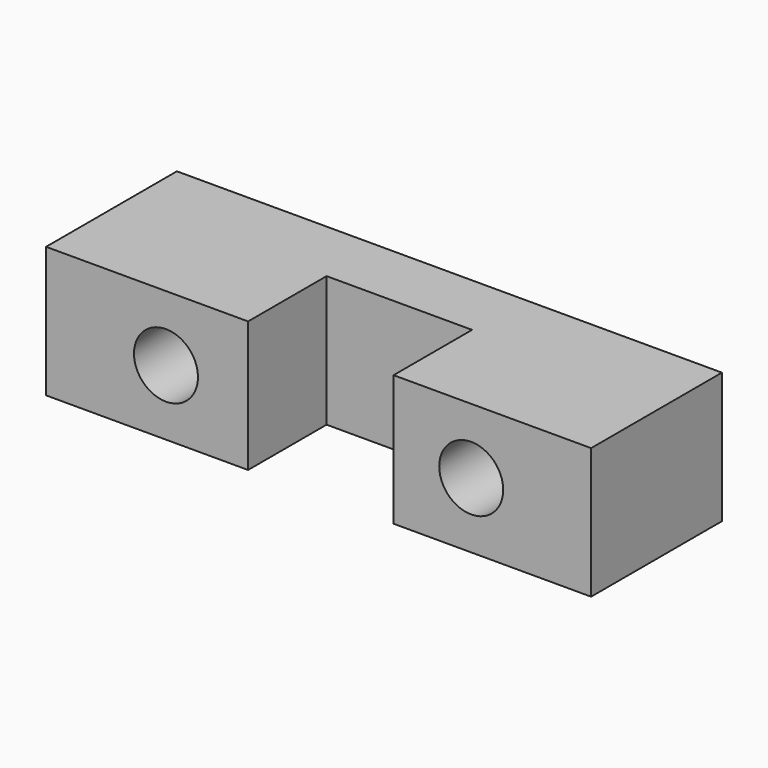
from build123d import *

# Parameters (mm, degrees)
F0_W     = 50
F0_H     = 12
F0_R     = 2.9335
F1_DEPTH = 5
F2_W     = 18.531616
F2_H     = 12
F2_W_2   = 18.120926
F3_DEPTH = 9
F4_R     = 2.9335
F5_DEPTH = 25
F6_W     = 50
F6_H     = 12
F7_DEPTH = 1


with BuildPart() as f1:
    # F0 (on Front) → F1 (new body)
    with BuildSketch(Plane.XZ):
        Rectangle(F0_W, F0_H)
        with Locations((-14, 0)):
            Circle(F0_R, mode=Mode.SUBTRACT)
        with Locations((14, 0)):
            Circle(F0_R, mode=Mode.SUBTRACT)
    extrude(amount=F1_DEPTH)

    # F2 (on face) → F3 (join)
    with BuildSketch(Plane.XZ.offset(5)):
        with Locations((-15.734192, 0)):
            Rectangle(F2_W, F2_H)
        with Locations((15.939537, 0)):
            Rectangle(F2_W_2, F2_H)
    extrude(amount=F3_DEPTH)

    # F4 (on face) → F5 (cut)
    with BuildSketch(Plane(origin=(0, 0, 0), x_dir=(-1, 0, 0), z_dir=(0, 1, 0))):
        with Locations((-14, 0)):
            Circle(F4_R)
        with Locations((14, 0)):
            Circle(F4_R)
    extrude(amount=-F5_DEPTH, mode=Mode.SUBTRACT)

    # F6 (on face) → F7 (join)
    with BuildSketch(Plane(origin=(0, 0, 0), x_dir=(-1, 0, 0), z_dir=(0, 1, 0))):
        Rectangle(F6_W, F6_H)
    extrude(amount=F7_DEPTH)


solid = f1.part
